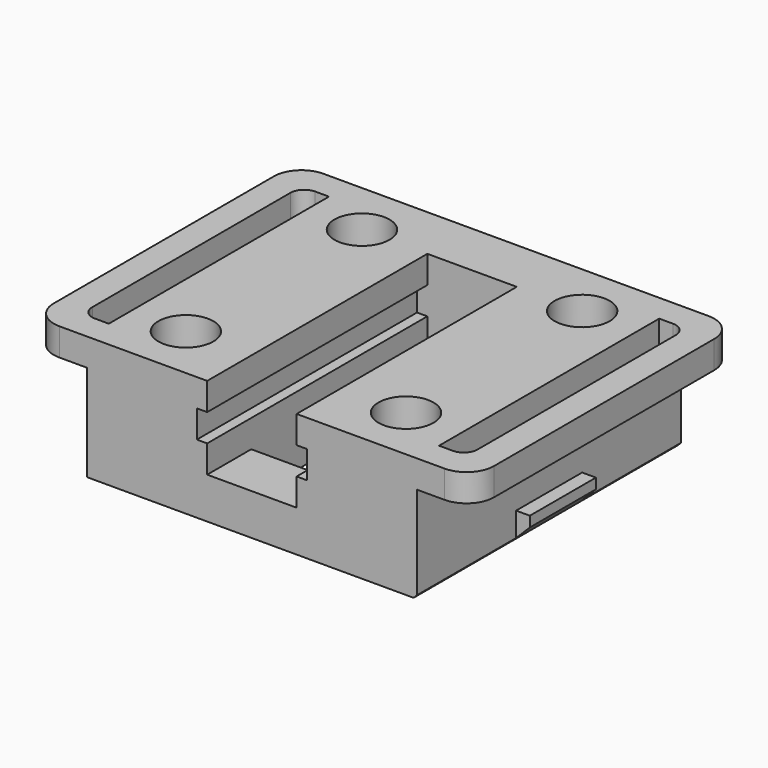
from build123d import *

# Parameters (mm, degrees)
F0_W      = 24
F0_H      = 24
F0_R      = 2
F1_DEPTH  = 9
F3_START  = 7
F2_W      = 32
F2_H      = 24
F2_R      = 2
F2_W_2    = 2
F2_H_2    = 20
F3_DEPTH  = 2
F4_W      = 8
F4_H      = 6
F5_DEPTH  = 12
F6_DEPTH  = 8
F7_W      = 0.75
F7_H      = 2
F8_DEPTH  = 12
F9_W      = 1.25
F9_H      = 6
F10_DEPTH = 2
F11_SIZE  = 1.25
F12_W     = 6.5
F12_H     = 16
F13_DEPTH = 3
F14_R     = 2
F15_R     = 1


with BuildPart() as f1:
    # F0 (on Top) → F1 (new body)
    with BuildSketch(Plane.XY):
        Rectangle(F0_W, F0_H)
        with Locations((-8, -8)):
            Circle(F0_R, mode=Mode.SUBTRACT)
        with Locations((8, -8)):
            Circle(F0_R, mode=Mode.SUBTRACT)
        with Locations((-8, 8)):
            Circle(F0_R, mode=Mode.SUBTRACT)
        with Locations((8, 8)):
            Circle(F0_R, mode=Mode.SUBTRACT)
    extrude(amount=F1_DEPTH)

    # F2 (on Top) → F3 (join)
    with BuildSketch(Plane.XY.offset(F3_START)):
        Rectangle(F2_W, F2_H)
        with Locations((-8, -8)):
            Circle(F2_R, mode=Mode.SUBTRACT)
        with Locations((8, -8)):
            Circle(F2_R, mode=Mode.SUBTRACT)
        with Locations((-13, 0)):
            Rectangle(F2_W_2, F2_H_2, mode=Mode.SUBTRACT)
        with Locations((-8, 8)):
            Circle(F2_R, mode=Mode.SUBTRACT)
        with Locations((13, 0)):
            Rectangle(F2_W_2, F2_H_2, mode=Mode.SUBTRACT)
        with Locations((8, 8)):
            Circle(F2_R, mode=Mode.SUBTRACT)
    extrude(amount=F3_DEPTH)

    # F4 (on Front) → F5 (cut)
    with BuildSketch(Plane.XZ):
        with Locations((0, 6)):
            Rectangle(F4_W, F4_H)
    extrude(amount=F5_DEPTH, mode=Mode.SUBTRACT)

    # F4 (on Front) → F6 (cut)
    with BuildSketch(Plane.XZ):
        with Locations((0, 6)):
            Rectangle(F4_W, F4_H)
    extrude(amount=-F6_DEPTH, mode=Mode.SUBTRACT)

    # F7 (on Front) → F8 (join, symmetric)
    with BuildSketch(Plane.XZ):
        with Locations((-3.625, 8)):
            Rectangle(F7_W, F7_H)
        with Locations((3.625, 8)):
            Rectangle(F7_W, F7_H)
        with Locations((3.625, 4)):
            Rectangle(F7_W, F7_H)
        with Locations((-3.625, 4)):
            Rectangle(F7_W, F7_H)
    extrude(amount=F8_DEPTH, both=True)

    # F9 (on Top) → F10 (join)
    with BuildSketch(Plane.XY):
        with Locations((-12.625, 0)):
            Rectangle(F9_W, F9_H)
        with Locations((12.375, 0)):
            Rectangle(F9_W, F9_H)
    extrude(amount=F10_DEPTH)

    # F11
    f11_edges = [f1.edges().sort_by_distance(p)[0] for p in [
        (13, 0, 0),
        (-13.25, 0, 0),
    ]]
    chamfer(f11_edges, length=F11_SIZE)

    # F12 (on Top) → F13 (cut)
    with BuildSketch(Plane.XY):
        Rectangle(F12_W, F12_H)
    extrude(amount=F13_DEPTH, mode=Mode.SUBTRACT)

    # F14
    f14_edges = [f1.edges().sort_by_distance(p)[0] for p in [
        (16, -12, 8),
        (16, 12, 8),
        (-16, -12, 8),
        (-16, 12, 8),
    ]]
    fillet(f14_edges, radius=F14_R)

    # F15
    f15_edges = [f1.edges().sort_by_distance(p)[0] for p in [
        (-14, 10, 8),
        (-14, -10, 8),
        (14, 10, 8),
        (14, -10, 8),
    ]]
    fillet(f15_edges, radius=F15_R)


solid = f1.part
